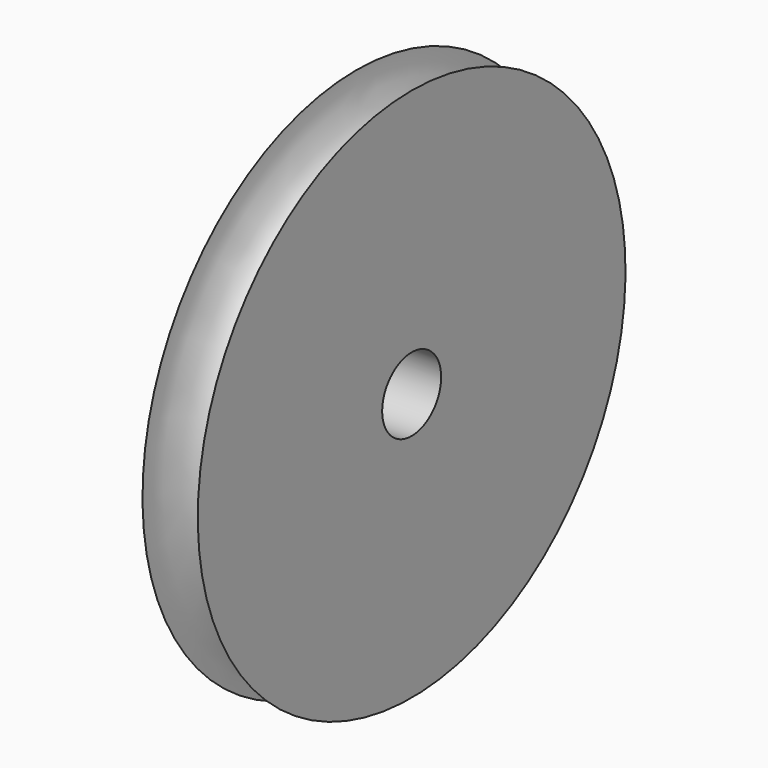
from build123d import *

# Parameters (mm, degrees)
F2_R     = 2
F3_DEPTH = 25


with BuildPart() as f1:
    # F0 (on Front) → F1 (revolve)
    with BuildSketch(Plane.XZ):
        with BuildLine():
            add(Edge.make_bspline(
                [(-1.5, 14.5), (-1.5, 11.5972971185), (0, 11.5972971185), (1.5, 11.5972971185), (1.5, 14.5)],
                knots=[4.7123889804, 4.7123889804, 4.7123889804, 6.2831853072, 6.2831853072, 7.853981634, 7.853981634, 7.853981634], degree=2, weights=[1, 0.7071067812, 1, 0.7071067812, 1]))
            Line((-1.5, 14.5), (-1.5, 0))
            Line((-1.5, 0), (1.5, 0))
            Line((1.5, 0), (1.5, 14.5))
        make_face()
    revolve(axis=Axis((0, 0, 0), (1, 0, 0)))

    # F2 (on face) → F3 (cut)
    with BuildSketch(Plane(origin=(-1.5, 0, 0), x_dir=(0, -1, 0), z_dir=(-1, 0, 0))):
        Circle(F2_R)
    extrude(amount=-F3_DEPTH, mode=Mode.SUBTRACT)


solid = f1.part
